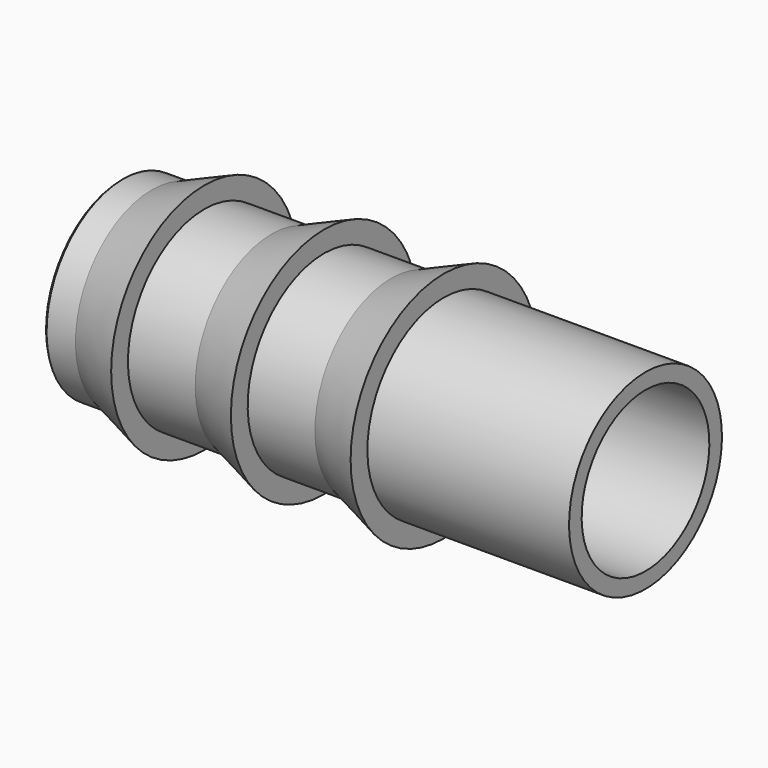
from build123d import *

# Parameters (mm, degrees)
F2_SIZE = 0.25


with BuildPart() as f1:
    # F0 (on Front) → F1 (revolve)
    with BuildSketch(Plane.XZ):
        Polygon((0, 9.1), (0, 7.6), (50, 7.6), (50, 9.1), (30.8, 9.1), (30.8, 11.1), (25.8, 9.1), (19.4, 9.1), (19.4, 11.1), (14.4, 9.1), (8, 9.1), (8, 11.1), (3, 9.1), align=None)
    revolve(axis=Axis((1.427273, 0, 0), (1, 0, 0)))

    # F2
    f2_edges = [f1.edges().sort_by_distance(p)[0] for p in [
        (0, 0, -9.1),
    ]]
    chamfer(f2_edges, length=F2_SIZE)


solid = f1.part
